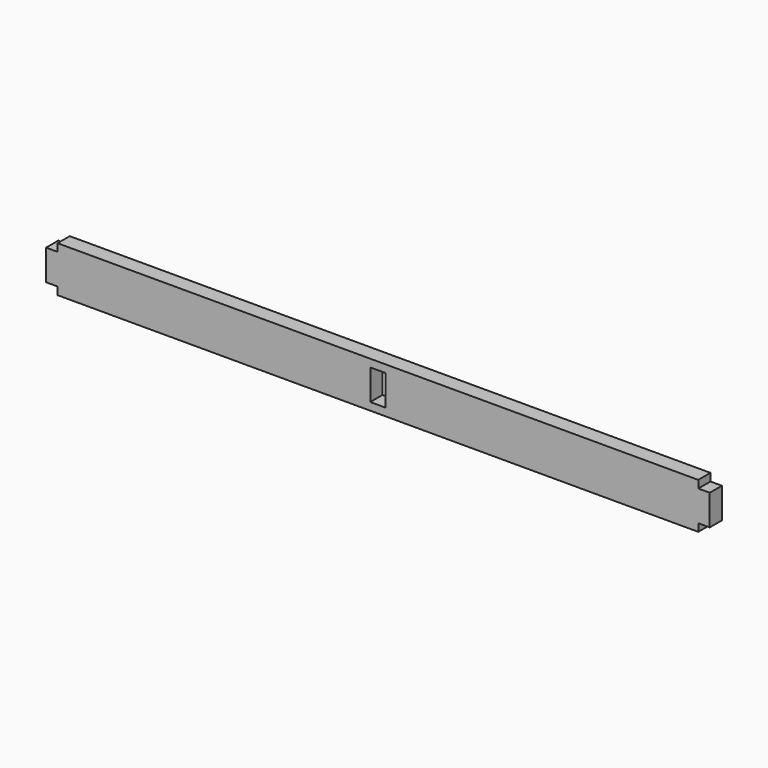
from build123d import *

# Parameters (mm, degrees)
F0_W     = 25.4
F0_H     = 50.8
F0_W_2   = 19.05
F1_DEPTH = 25.4


with BuildPart() as f1:
    # F0 (on Front) → F1 (new body)
    with BuildSketch(Plane.XZ):
        Polygon((937.854141, 37.80783), (-128.945859, 37.80783), (-128.945859, 25.10783), (-128.945859, -25.69217), (-128.945859, -38.39217), (937.854141, -38.39217), (937.854141, -25.69217), (937.854141, 25.10783), align=None)
        with Locations((404.454141, -0.29217)):
            Rectangle(F0_W, F0_H, mode=Mode.SUBTRACT)
        with Locations((-138.470859, -0.29217)):
            Rectangle(F0_W_2, F0_H)
        with Locations((947.379141, -0.29217)):
            Rectangle(F0_W_2, F0_H)
    extrude(amount=F1_DEPTH)


solid = f1.part
